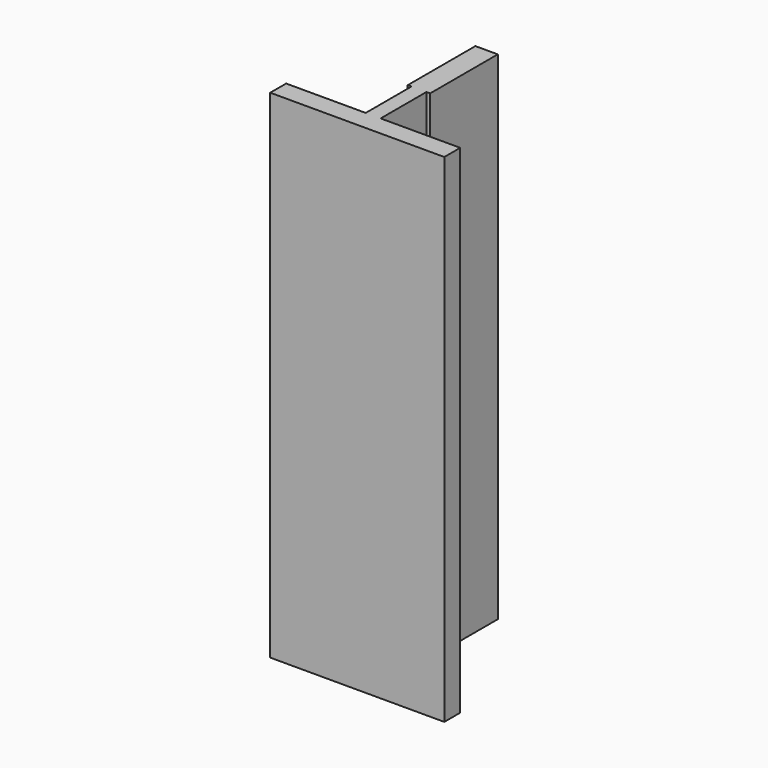
from build123d import *

# Parameters (mm, degrees)
F0_W     = 6
F0_H     = 23
F1_DEPTH = 200


with BuildPart() as f1:
    # F0 (on Top) → F1 (new body)
    with BuildSketch(Plane.XY):
        Polygon((-4.5, 61), (-4.5, 27), (-3, 27), (3, 27), (4.5, 27), (4.5, 61), align=None)
        with Locations((0, 15.5)):
            Rectangle(F0_W, F0_H)
        Polygon((3, 4), (-3, 4), (-35, 4), (-35, -4), (35, -4), (35, 4), align=None)
    extrude(amount=F1_DEPTH)


solid = f1.part
